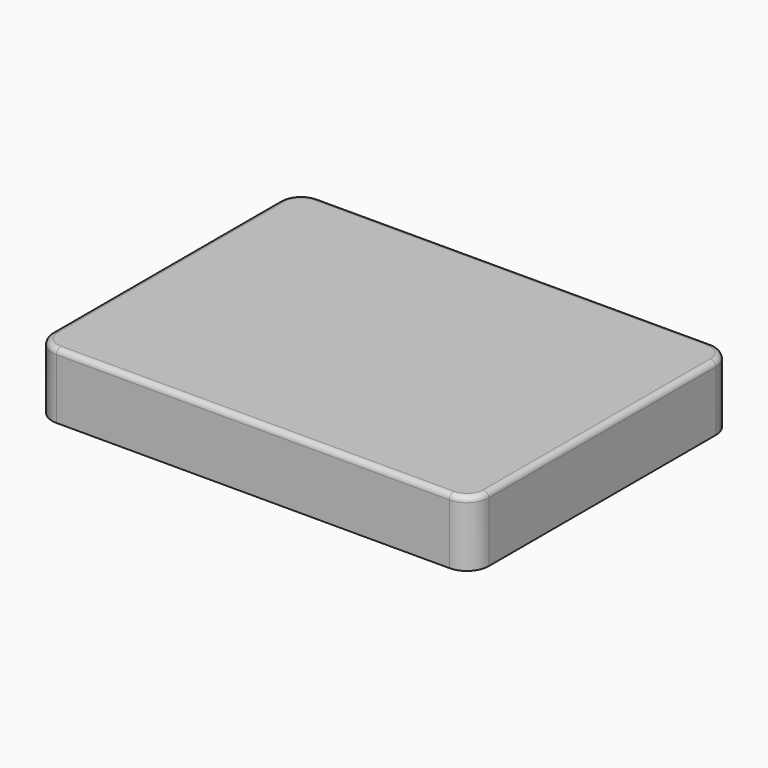
from build123d import *

# Parameters (mm, degrees)
F0_W     = 2032
F0_H     = 1524
F1_DEPTH = 304.8
F2_R     = 101.6
F3_R     = 101.6
F4_R     = 101.6
F5_R     = 101.6
F6_R     = 25.4


with BuildPart() as f1:
    # F0 (on Top) → F1 (new body)
    with BuildSketch(Plane.XY):
        with Locations((4.324865, 267.63249)):
            Rectangle(F0_W, F0_H)
    extrude(amount=F1_DEPTH)

    # F2
    f2_edges = [f1.edges().sort_by_distance(p)[0] for p in [
        (-1011.675135, -494.36751, 152.4),
    ]]
    fillet(f2_edges, radius=F2_R)

    # F3
    f3_edges = [f1.edges().sort_by_distance(p)[0] for p in [
        (-1011.675135, 1029.63249, 152.4),
    ]]
    fillet(f3_edges, radius=F3_R)

    # F4
    f4_edges = [f1.edges().sort_by_distance(p)[0] for p in [
        (1020.324865, 1029.63249, 152.4),
    ]]
    fillet(f4_edges, radius=F4_R)

    # F5
    f5_edges = [f1.edges().sort_by_distance(p)[0] for p in [
        (1020.324865, -494.36751, 152.4),
    ]]
    fillet(f5_edges, radius=F5_R)

    # F6
    f6_edges = [f1.edges().sort_by_distance(p)[0] for p in [
        (-1011.675135, 267.63249, 304.8),
        (4.324865, 1029.63249, 304.8),
        (4.324865, -494.36751, 304.8),
        (1020.324865, 267.63249, 304.8),
    ]]
    fillet(f6_edges, radius=F6_R)


solid = f1.part
